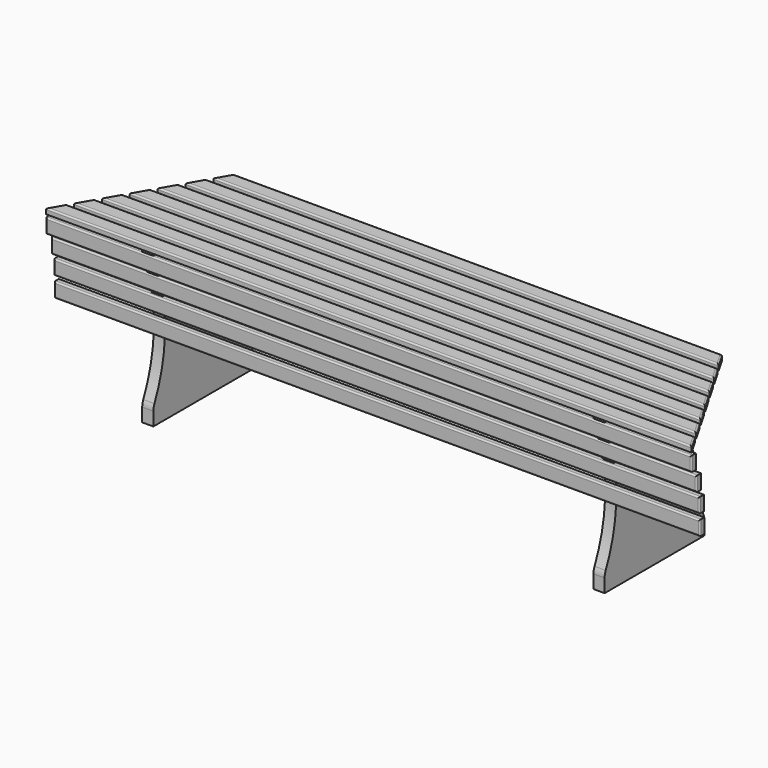
from build123d import *

# Parameters (mm, degrees)
F0_W           = 2200
F0_H           = 50
F1_DEPTH       = 19
F4_DEPTH       = 38
F8_DEPTH       = 19
F10_DEPTH      = 550.001
F11_R          = 5
F11_2_R        = 5
F11_3_R        = 5
F11_4_R        = 5
F11_5_R        = 5
F11_6_R        = 5
F11_7_R        = 5
F12_W          = 19
F12_H          = 50
F13_DEPTH      = 1888.001
F14_DEPTH      = 300
F14_DEPTH_BACK = 1900
F15_R          = 5
F15_2_R        = 5
F15_3_R        = 5
F15_4_R        = 5
F16_R          = 50
F16_2_R        = 50


with BuildPart() as f1:
    # F0 (on Top) → F1 (new body)
    with BuildSketch(Plane.XY):
        with Locations((0, 25)):
            Rectangle(F0_W, F0_H)
    extrude(amount=F1_DEPTH)


with BuildPart() as f1b:
    # F0 (on Top) → F1, piece 2 (new body)
    with BuildSketch(Plane.XY):
        with Locations((0, 94)):
            Rectangle(F0_W, F0_H)
    extrude(amount=F1_DEPTH)


with BuildPart() as f1c:
    # F0 (on Top) → F1, piece 3 (new body)
    with BuildSketch(Plane.XY):
        with Locations((0, 163)):
            Rectangle(F0_W, F0_H)
    extrude(amount=F1_DEPTH)


with BuildPart() as f1d:
    # F0 (on Top) → F1, piece 4 (new body)
    with BuildSketch(Plane.XY):
        with Locations((0, 232)):
            Rectangle(F0_W, F0_H)
    extrude(amount=F1_DEPTH)


with BuildPart() as f1e:
    # F0 (on Top) → F1, piece 5 (new body)
    with BuildSketch(Plane.XY):
        with Locations((0, 301)):
            Rectangle(F0_W, F0_H)
    extrude(amount=F1_DEPTH)


with BuildPart() as f1f:
    # F0 (on Top) → F1, piece 6 (new body)
    with BuildSketch(Plane.XY):
        with Locations((0, 370)):
            Rectangle(F0_W, F0_H)
    extrude(amount=F1_DEPTH)


with BuildPart() as f1g:
    # F0 (on Top) → F1, piece 7 (new body)
    with BuildSketch(Plane.XY):
        with Locations((0, 439)):
            Rectangle(F0_W, F0_H)
    extrude(amount=F1_DEPTH)


with BuildPart() as f4:
    # F3 (on offset) → F4 (new body)
    with BuildSketch(Plane.YZ.offset(750)):
        with BuildLine():
            Line((445, 0), (19, 0))
            Line((19, 0), (19, -38))
            ThreePointArc((19, -38), (69.2767040097, -255.9426299266), (19.5, -474))
            Line((19.5, -474), (19.5, -531))
            Line((19.5, -531), (444.5, -531))
            Line((444.5, -531), (444.5, -474))
            ThreePointArc((444.5, -474), (394.7232959903, -255.9426299266), (445, -38))
            Line((445, -38), (445, 0))
        make_face()
    extrude(amount=F4_DEPTH)


with BuildPart() as f5_1:
    # F5: instance of F4
    add(f4.part.mirror(Plane.YZ))


with BuildPart() as f8:
    # F7 (on offset) → F8 (new body)
    with BuildSketch(Plane.XZ.offset(-240)):
        with BuildLine():
            Line((913, 0), (-913, 0))
            ThreePointArc((-913, 0), (-870.6771431048, -122.2726400624), (-850, -250))
            Line((-850, -250), (850, -250))
            ThreePointArc((850, -250), (870.6771431048, -122.2726400624), (913, 0))
        make_face()
    extrude(amount=F8_DEPTH)


with BuildPart() as f10_tool:
    # F9 (on face) → F10 (new body, through all)
    with BuildSketch(Plane.XY.offset(19)):
        Polygon((-1100, 464), (-1100, 0), (-832.109475096, 464), align=None)
        Polygon((832.109475096, 464), (1100, 0), (1100, 464), align=None)
    extrude(amount=-F10_DEPTH)


with BuildPart() as f1_1:
    add(f1.part)

    # F10: cut by f10_tool
    add(f10_tool.part, mode=Mode.SUBTRACT)

    # F11
    f11_edges = [f1_1.edges().sort_by_distance(p)[0] for p in [
        (0, 0, 19),
        (1085.566243, 25, 19),
        (0, 50, 19),
        (-1085.566243, 25, 19),
    ]]
    fillet(f11_edges, radius=F11_R)


with BuildPart() as f1b_1:
    add(f1b.part)

    # F10: cut by f10_tool
    add(f10_tool.part, mode=Mode.SUBTRACT)

    # F11#2
    f11_2_edges = [f1b_1.edges().sort_by_distance(p)[0] for p in [
        (1045.729075, 94, 19),
        (0, 69, 19),
        (0, 119, 19),
        (-1045.729075, 94, 19),
    ]]
    fillet(f11_2_edges, radius=F11_2_R)


with BuildPart() as f1c_1:
    add(f1c.part)

    # F10: cut by f10_tool
    add(f10_tool.part, mode=Mode.SUBTRACT)

    # F11#3
    f11_3_edges = [f1c_1.edges().sort_by_distance(p)[0] for p in [
        (1005.891906, 163, 19),
        (0, 138, 19),
        (0, 188, 19),
        (-1005.891906, 163, 19),
    ]]
    fillet(f11_3_edges, radius=F11_3_R)


with BuildPart() as f1d_1:
    add(f1d.part)

    # F10: cut by f10_tool
    add(f10_tool.part, mode=Mode.SUBTRACT)

    # F11#4
    f11_4_edges = [f1d_1.edges().sort_by_distance(p)[0] for p in [
        (966.054738, 232, 19),
        (0, 207, 19),
        (0, 257, 19),
        (-966.054738, 232, 19),
    ]]
    fillet(f11_4_edges, radius=F11_4_R)


with BuildPart() as f1e_1:
    add(f1e.part)

    # F10: cut by f10_tool
    add(f10_tool.part, mode=Mode.SUBTRACT)

    # F11#5
    f11_5_edges = [f1e_1.edges().sort_by_distance(p)[0] for p in [
        (926.217569, 301, 19),
        (0, 276, 19),
        (0, 326, 19),
        (-926.217569, 301, 19),
    ]]
    fillet(f11_5_edges, radius=F11_5_R)


with BuildPart() as f1f_1:
    add(f1f.part)

    # F10: cut by f10_tool
    add(f10_tool.part, mode=Mode.SUBTRACT)

    # F11#6
    f11_6_edges = [f1f_1.edges().sort_by_distance(p)[0] for p in [
        (886.3804, 370, 19),
        (0, 345, 19),
        (0, 395, 19),
        (-886.3804, 370, 19),
    ]]
    fillet(f11_6_edges, radius=F11_6_R)


with BuildPart() as f1g_1:
    add(f1g.part)

    # F10: cut by f10_tool
    add(f10_tool.part, mode=Mode.SUBTRACT)

    # F11#7
    f11_7_edges = [f1g_1.edges().sort_by_distance(p)[0] for p in [
        (846.543232, 439, 19),
        (0, 414, 19),
        (0, 464, 19),
        (-846.543232, 439, 19),
    ]]
    fillet(f11_7_edges, radius=F11_7_R)


with BuildPart() as f13_tool:
    # F12 (on face) → F13 (new body, through all)
    with BuildSketch(Plane.YZ.offset(788)):
        with Locations((23.2829558665, -44)):
            Rectangle(F12_W, F12_H)
        with Locations((45.5279484301, -113)):
            Rectangle(F12_W, F12_H)
        with Locations((57.3191549901, -182)):
            Rectangle(F12_W, F12_H)
        with Locations((59.3972632467, -251)):
            Rectangle(F12_W, F12_H)
    extrude(amount=-F13_DEPTH)


with BuildPart() as f4_1:
    add(f4.part)

    # F13: cut by f13_tool
    add(f13_tool.part, mode=Mode.SUBTRACT)

    # F16
    f16_edges = [f4_1.edges().sort_by_distance(p)[0] for p in [
        (769, 19.5, -474),
        (769, 444.5, -474),
    ]]
    fillet(f16_edges, radius=F16_R)


with BuildPart() as f5_1_1:
    add(f5_1.part)

    # F13: cut by f13_tool
    add(f13_tool.part, mode=Mode.SUBTRACT)

    # F16#2
    f16_2_edges = [f5_1_1.edges().sort_by_distance(p)[0] for p in [
        (-769, 19.5, -474),
        (-769, 444.5, -474),
    ]]
    fillet(f16_2_edges, radius=F16_2_R)


with BuildPart() as f14:
    # F12 (on face) → F14 (new body, two sides)
    with BuildSketch(Plane.YZ.offset(788)) as f14_sk:
        with Locations((23.2829558665, -44)):
            Rectangle(F12_W, F12_H)
    extrude(amount=F14_DEPTH)
    extrude(f14_sk.sketch, amount=-F14_DEPTH_BACK)

    # F15
    f15_edges = [f14.edges().sort_by_distance(p)[0] for p in [
        (-12, 13.782956, -19),
        (1088, 13.782956, -44),
        (-12, 13.782956, -69),
        (-1112, 13.782956, -44),
    ]]
    fillet(f15_edges, radius=F15_R)


with BuildPart() as f14b:
    # F12 (on face) → F14, piece 2 (new body, two sides)
    with BuildSketch(Plane.YZ.offset(788)) as f14_2_sk:
        with Locations((45.5279484301, -113)):
            Rectangle(F12_W, F12_H)
    extrude(amount=F14_DEPTH)
    extrude(f14_2_sk.sketch, amount=-F14_DEPTH_BACK)

    # F15#2
    f15_2_edges = [f14b.edges().sort_by_distance(p)[0] for p in [
        (-12, 36.027948, -88),
        (1088, 36.027948, -113),
        (-12, 36.027948, -138),
        (-1112, 36.027948, -113),
    ]]
    fillet(f15_2_edges, radius=F15_2_R)


with BuildPart() as f14c:
    # F12 (on face) → F14, piece 3 (new body, two sides)
    with BuildSketch(Plane.YZ.offset(788)) as f14_3_sk:
        with Locations((57.3191549901, -182)):
            Rectangle(F12_W, F12_H)
    extrude(amount=F14_DEPTH)
    extrude(f14_3_sk.sketch, amount=-F14_DEPTH_BACK)

    # F15#3
    f15_3_edges = [f14c.edges().sort_by_distance(p)[0] for p in [
        (-12, 47.819155, -157),
        (1088, 47.819155, -182),
        (-12, 47.819155, -207),
        (-1112, 47.819155, -182),
    ]]
    fillet(f15_3_edges, radius=F15_3_R)


with BuildPart() as f14d:
    # F12 (on face) → F14, piece 4 (new body, two sides)
    with BuildSketch(Plane.YZ.offset(788)) as f14_4_sk:
        with Locations((59.3972632467, -251)):
            Rectangle(F12_W, F12_H)
    extrude(amount=F14_DEPTH)
    extrude(f14_4_sk.sketch, amount=-F14_DEPTH_BACK)

    # F15#4
    f15_4_edges = [f14d.edges().sort_by_distance(p)[0] for p in [
        (-12, 49.897263, -276),
        (-12, 49.897263, -226),
        (1088, 49.897263, -251),
        (-1112, 49.897263, -251),
    ]]
    fillet(f15_4_edges, radius=F15_4_R)


solid = Compound([f8.part, f1_1.part, f1b_1.part, f1c_1.part, f1d_1.part, f1e_1.part, f1f_1.part, f1g_1.part, f4_1.part, f5_1_1.part, f14.part, f14b.part, f14c.part, f14d.part])
